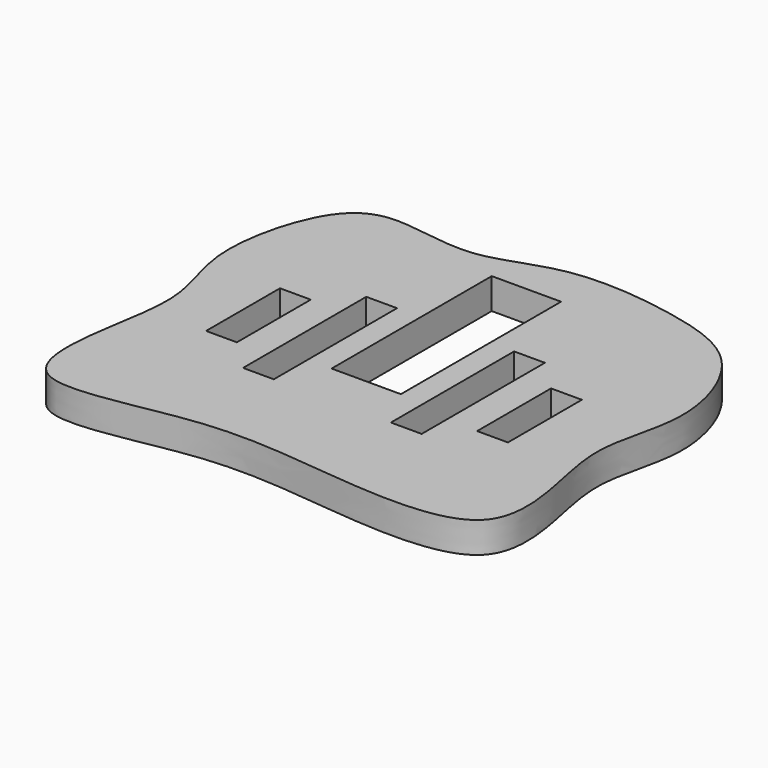
from build123d import *

# Parameters (mm, degrees)
F0_W     = 125
F0_H     = 100
F1_DEPTH = 10
F2_W     = 10
F2_H     = 50
F3_DEPTH = 25
F4_W     = 10
F4_H     = 30
F5_DEPTH = 25
F6_W     = 125
F6_H     = 100
F7_DEPTH = 10
F8_W     = 22.5
F8_H     = 65
F9_DEPTH = 25


with BuildPart() as f1:
    # F0 (on Top) → F1 (new body)
    with BuildSketch(Plane.XY):
        Rectangle(F0_W, F0_H)
    extrude(amount=F1_DEPTH)

    # F2 (on face) → F3 (cut)
    with BuildSketch(Plane.XY.offset(10)):
        with Locations((-24, 0)):
            Rectangle(F2_W, F2_H)
        with Locations((24, 0)):
            Rectangle(F2_W, F2_H)
    extrude(amount=-F3_DEPTH, mode=Mode.SUBTRACT)

    # F4 (on face) → F5 (cut)
    with BuildSketch(Plane.XY.offset(10)):
        with Locations((-44, 0)):
            Rectangle(F4_W, F4_H)
        with Locations((44, 0)):
            Rectangle(F4_W, F4_H)
    extrude(amount=-F5_DEPTH, mode=Mode.SUBTRACT)

    # F6 (on face) → F7 (join)
    with BuildSketch(Plane.XY.offset(10)):
        with BuildLine():
            add(Edge.make_bspline(
                [(-64.2976015806, 54.3782301247), (-60.66151236, 59.8268472461), (-50.5377305405, 65.2797832082), (-22.8831858877, 56.7934533301), (1.2405644304, 70.9935806246), (39.2931049804, 66.6120535819), (66.1506720938, 57.3910469707), (78.089156159, 23.917701602), (66.873419545, -2.539113534), (74.2823706451, -27.1334559197), (76.7952058203, -58.9612049459), (28.8812859219, -58.8494990466), (-15.3054430227, -50.5504255768), (-70.9677630567, -68.3864889621), (-71.7694744464, -34.5814503254), (-63.7573321135, -4.023836256), (-76.2389304679, 19.4576593087), (-69.6054470834, 46.4245149849), (-64.2976015806, 54.3782301247)],
                knots=[0, 0, 0, 0, 0.0457172305, 0.1037886431, 0.1628725602, 0.2320487507, 0.2911738965, 0.3546407671, 0.4140563564, 0.4719496722, 0.5275438527, 0.5977323984, 0.6795108363, 0.7568521072, 0.811407923, 0.8754202652, 0.9332634648, 1, 1, 1, 1], degree=3))
        make_face()
        Rectangle(F6_W, F6_H, mode=Mode.SUBTRACT)
    extrude(amount=-F7_DEPTH)

    # F8 (on face) → F9 (cut)
    with BuildSketch(Plane.XY.offset(10)):
        with Locations((0, 21.25)):
            Rectangle(F8_W, F8_H)
    extrude(amount=-F9_DEPTH, mode=Mode.SUBTRACT)


solid = f1.part
